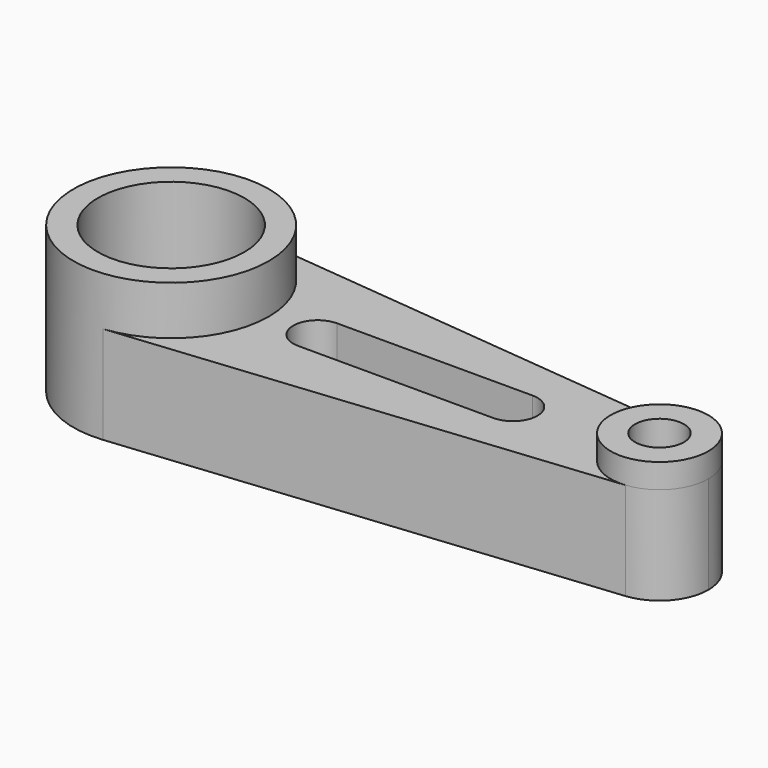
from build123d import *

# Parameters (mm, degrees)
F0_R     = 19.05
F0_R_2   = 6.35
F1_DEPTH = 25.4
F2_R     = 25.4
F2_R_2   = 19.05
F3_DEPTH = 12.7
F4_R     = 12.7
F4_R_2   = 6.35
F5_DEPTH = 6.35


with BuildPart() as f1:
    # F0 (on Top) → F1 (new body)
    with BuildSketch(Plane.XY):
        with BuildLine():
            ThreePointArc((-41.452724, -18.922681), (-25.15558, -10.688838), (-18.592724, 6.35))
            ThreePointArc((-18.592724, 6.35), (-25.15558, 23.388838), (-41.452724, 31.622681))
            ThreePointArc((-41.452724, 31.622681), (-69.392724, 6.35), (-41.452724, -18.922681))
        make_face()
        with Locations((-43.992724, 6.35)):
            Circle(F0_R, mode=Mode.SUBTRACT)
        with BuildLine():
            ThreePointArc((-41.452724, 31.622681), (-25.15558, 23.388838), (-18.592724, 6.35))
            ThreePointArc((-18.592724, 6.35), (-25.15558, -10.688838), (-41.452724, -18.922681))
            Line((-41.452724, -18.922681), (84.277276, -6.28634))
            ThreePointArc((84.277276, -6.28634), (70.307276, 6.35), (84.277276, 18.98634))
            Line((84.277276, 18.98634), (-41.452724, 31.622681))
        make_face()
        with BuildLine():
            ThreePointArc((-5.892724, 0), (-12.242724, 6.35), (-5.892724, 12.7))
            Line((-5.892724, 12.7), (44.907276, 12.7))
            ThreePointArc((44.907276, 12.7), (49.397404, 10.840128), (51.257276, 6.35))
            ThreePointArc((51.257276, 6.35), (49.397404, 1.859872), (44.907276, 0))
            Line((44.907276, 0), (-5.892724, 0))
        make_face(mode=Mode.SUBTRACT)
        with BuildLine():
            ThreePointArc((95.707276, 6.35), (92.425848, 14.869419), (84.277276, 18.98634))
            ThreePointArc((84.277276, 18.98634), (70.307276, 6.35), (84.277276, -6.28634))
            ThreePointArc((84.277276, -6.28634), (92.425848, -2.169419), (95.707276, 6.35))
        make_face()
        with Locations((83.007276, 6.35)):
            Circle(F0_R_2, mode=Mode.SUBTRACT)
    extrude(amount=F1_DEPTH)

    # F2 (on face) → F3 (join)
    with BuildSketch(Plane.XY.offset(25.4)):
        with Locations((-43.992724, 6.35)):
            Circle(F2_R)
        with Locations((-43.992724, 6.35)):
            Circle(F2_R_2, mode=Mode.SUBTRACT)
    extrude(amount=F3_DEPTH)

    # F4 (on face) → F5 (join)
    with BuildSketch(Plane.XY.offset(25.4)):
        with Locations((83.007276, 6.35)):
            Circle(F4_R)
        with Locations((83.007276, 6.35)):
            Circle(F4_R_2, mode=Mode.SUBTRACT)
    extrude(amount=F5_DEPTH)


solid = f1.part
